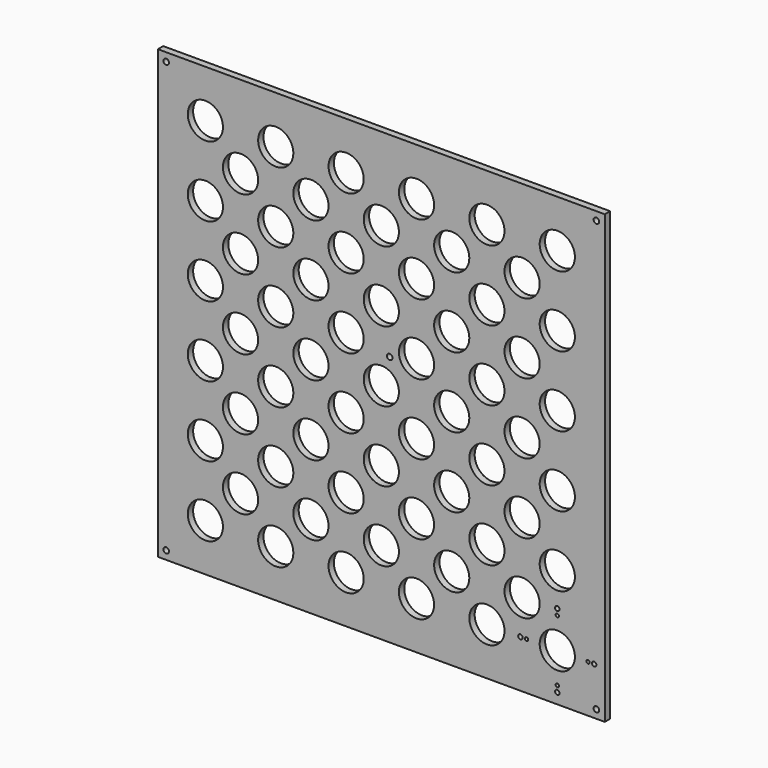
from build123d import *

# Parameters (mm, degrees)
F0_W     = 800
F0_H     = 800
F0_R     = 31.5
F1_DEPTH = 12
F2_R     = 4
F2_R_2   = 3
F3_DEPTH = 12.001
F4_R     = 5
F5_DEPTH = 12.001


with BuildPart() as f1:
    # F0 (on Front) → F1 (new body)
    with BuildSketch(Plane.XZ):
        Rectangle(F0_W, F0_H)
        with Locations((-315, -315)):
            Circle(F0_R, mode=Mode.SUBTRACT)
        with Locations((-252, -252)):
            Circle(F0_R, mode=Mode.SUBTRACT)
        with Locations((-189, -315)):
            Circle(F0_R, mode=Mode.SUBTRACT)
        with Locations((-63, -315)):
            Circle(F0_R, mode=Mode.SUBTRACT)
        with Locations((-126, -252)):
            Circle(F0_R, mode=Mode.SUBTRACT)
        with Locations((-315, -189)):
            Circle(F0_R, mode=Mode.SUBTRACT)
        with Locations((-252, -126)):
            Circle(F0_R, mode=Mode.SUBTRACT)
        with Locations((-315, -63)):
            Circle(F0_R, mode=Mode.SUBTRACT)
        with Locations((-189, -189)):
            Circle(F0_R, mode=Mode.SUBTRACT)
        with Locations((-126, -126)):
            Circle(F0_R, mode=Mode.SUBTRACT)
        with Locations((-63, -189)):
            Circle(F0_R, mode=Mode.SUBTRACT)
        with Locations((-189, -63)):
            Circle(F0_R, mode=Mode.SUBTRACT)
        with Locations((-63, -63)):
            Circle(F0_R, mode=Mode.SUBTRACT)
        with Locations((63, -315)):
            Circle(F0_R, mode=Mode.SUBTRACT)
        with Locations((189, -315)):
            Circle(F0_R, mode=Mode.SUBTRACT)
        with Locations((0, -252)):
            Circle(F0_R, mode=Mode.SUBTRACT)
        with Locations((126, -252)):
            Circle(F0_R, mode=Mode.SUBTRACT)
        with Locations((315, -315)):
            Circle(F0_R, mode=Mode.SUBTRACT)
        with Locations((252, -252)):
            Circle(F0_R, mode=Mode.SUBTRACT)
        with Locations((63, -189)):
            Circle(F0_R, mode=Mode.SUBTRACT)
        with Locations((0, -126)):
            Circle(F0_R, mode=Mode.SUBTRACT)
        with Locations((189, -189)):
            Circle(F0_R, mode=Mode.SUBTRACT)
        with Locations((126, -126)):
            Circle(F0_R, mode=Mode.SUBTRACT)
        with Locations((63, -63)):
            Circle(F0_R, mode=Mode.SUBTRACT)
        with Locations((189, -63)):
            Circle(F0_R, mode=Mode.SUBTRACT)
        with Locations((252, -126)):
            Circle(F0_R, mode=Mode.SUBTRACT)
        with Locations((315, -189)):
            Circle(F0_R, mode=Mode.SUBTRACT)
        with Locations((315, -63)):
            Circle(F0_R, mode=Mode.SUBTRACT)
        with Locations((-315, 63)):
            Circle(F0_R, mode=Mode.SUBTRACT)
        with Locations((-252, 0)):
            Circle(F0_R, mode=Mode.SUBTRACT)
        with Locations((-315, 189)):
            Circle(F0_R, mode=Mode.SUBTRACT)
        with Locations((-252, 126)):
            Circle(F0_R, mode=Mode.SUBTRACT)
        with Locations((-126, 0)):
            Circle(F0_R, mode=Mode.SUBTRACT)
        with Locations((-189, 63)):
            Circle(F0_R, mode=Mode.SUBTRACT)
        with Locations((-63, 63)):
            Circle(F0_R, mode=Mode.SUBTRACT)
        with Locations((-126, 126)):
            Circle(F0_R, mode=Mode.SUBTRACT)
        with Locations((-189, 189)):
            Circle(F0_R, mode=Mode.SUBTRACT)
        with Locations((-63, 189)):
            Circle(F0_R, mode=Mode.SUBTRACT)
        with Locations((-252, 252)):
            Circle(F0_R, mode=Mode.SUBTRACT)
        with Locations((-315, 315)):
            Circle(F0_R, mode=Mode.SUBTRACT)
        with Locations((-126, 252)):
            Circle(F0_R, mode=Mode.SUBTRACT)
        with Locations((-189, 315)):
            Circle(F0_R, mode=Mode.SUBTRACT)
        with Locations((-63, 315)):
            Circle(F0_R, mode=Mode.SUBTRACT)
        Circle(F0_R, mode=Mode.SUBTRACT)
        with Locations((63, 63)):
            Circle(F0_R, mode=Mode.SUBTRACT)
        with Locations((126, 0)):
            Circle(F0_R, mode=Mode.SUBTRACT)
        with Locations((189, 63)):
            Circle(F0_R, mode=Mode.SUBTRACT)
        with Locations((0, 126)):
            Circle(F0_R, mode=Mode.SUBTRACT)
        with Locations((63, 189)):
            Circle(F0_R, mode=Mode.SUBTRACT)
        with Locations((126, 126)):
            Circle(F0_R, mode=Mode.SUBTRACT)
        with Locations((189, 189)):
            Circle(F0_R, mode=Mode.SUBTRACT)
        with Locations((252, 0)):
            Circle(F0_R, mode=Mode.SUBTRACT)
        with Locations((315, 63)):
            Circle(F0_R, mode=Mode.SUBTRACT)
        with Locations((252, 126)):
            Circle(F0_R, mode=Mode.SUBTRACT)
        with Locations((315, 189)):
            Circle(F0_R, mode=Mode.SUBTRACT)
        with Locations((0, 252)):
            Circle(F0_R, mode=Mode.SUBTRACT)
        with Locations((126, 252)):
            Circle(F0_R, mode=Mode.SUBTRACT)
        with Locations((63, 315)):
            Circle(F0_R, mode=Mode.SUBTRACT)
        with Locations((189, 315)):
            Circle(F0_R, mode=Mode.SUBTRACT)
        with Locations((252, 252)):
            Circle(F0_R, mode=Mode.SUBTRACT)
        with Locations((315, 315)):
            Circle(F0_R, mode=Mode.SUBTRACT)
    extrude(amount=F1_DEPTH)

    # F2 (on Front) → F3 (cut, through all)
    with BuildSketch(Plane.XZ):
        with Locations((315, -381)):
            Circle(F2_R)
        with Locations((381, -315)):
            Circle(F2_R)
        with Locations((315, -249)):
            Circle(F2_R)
        with Locations((249, -315)):
            Circle(F2_R)
        with Locations((315, -370)):
            Circle(F2_R_2)
        with Locations((370, -315)):
            Circle(F2_R_2)
        with Locations((315, -260)):
            Circle(F2_R_2)
        with Locations((260, -315)):
            Circle(F2_R_2)
    extrude(amount=F3_DEPTH, mode=Mode.SUBTRACT)

    # F4 (on Front) → F5 (cut, through all)
    with BuildSketch(Plane.XZ):
        with Locations((-385, -385)):
            Circle(F4_R)
        with Locations((-385, 385)):
            Circle(F4_R)
        with Locations((385, -385)):
            Circle(F4_R)
        with Locations((385, 385)):
            Circle(F4_R)
        with Locations((15, 50)):
            Circle(F4_R)
    extrude(amount=F5_DEPTH, mode=Mode.SUBTRACT)


solid = f1.part
